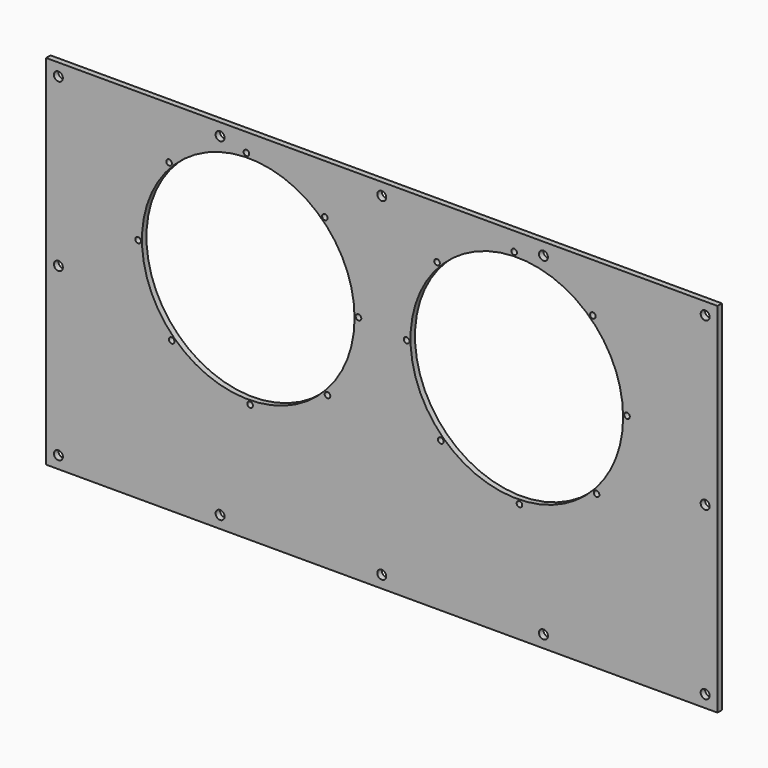
from build123d import *

# Parameters (mm, degrees)
F0_W     = 600
F0_H     = 320
F0_R     = 95
F1_DEPTH = 5
F2_R     = 2.5
F3_DEPTH = 25
F4_R     = 4
F5_DEPTH = 25


with BuildPart() as f1:
    # F0 (on Front) → F1 (new body)
    with BuildSketch(Plane.XZ):
        Rectangle(F0_W, F0_H)
        with Locations((-119.303569, 45)):
            Circle(F0_R, mode=Mode.SUBTRACT)
        with Locations((120.696431, 45)):
            Circle(F0_R, mode=Mode.SUBTRACT)
    extrude(amount=F1_DEPTH)

    # F2 (on face) → F3 (cut)
    with BuildSketch(Plane.XZ.offset(5)):
        with Locations((-120.931181, 143.486552)):
            Circle(F2_R)
        with Locations((118.338796, 143.471781)):
            Circle(F2_R)
        with Locations((-190.094973, 113.489613)):
            Circle(F2_R)
        with Locations((-217.790121, 43.372388)):
            Circle(F2_R)
        with Locations((-187.793182, -25.791404)):
            Circle(F2_R)
        with Locations((-117.675957, -53.486552)):
            Circle(F2_R)
        with Locations((-48.512165, -23.489613)):
            Circle(F2_R)
        with Locations((-20.817017, 46.627612)):
            Circle(F2_R)
        with Locations((-50.813956, 115.791404)):
            Circle(F2_R)
        with Locations((49.399267, 112.962964)):
            Circle(F2_R)
        with Locations((22.22465, 42.642365)):
            Circle(F2_R)
        with Locations((52.733467, -26.297164)):
            Circle(F2_R)
        with Locations((123.054066, -53.471781)):
            Circle(F2_R)
        with Locations((191.993594, -22.962964)):
            Circle(F2_R)
        with Locations((219.168211, 47.357635)):
            Circle(F2_R)
        with Locations((188.659395, 116.297164)):
            Circle(F2_R)
    extrude(amount=-F3_DEPTH, mode=Mode.SUBTRACT)

    # F4 (on face) → F5 (cut)
    with BuildSketch(Plane(origin=(0, 0, 0), x_dir=(-1, 0, 0), z_dir=(0, 1, 0))):
        with Locations((289.000004, 149.000004)):
            Circle(F4_R)
        with Locations((289.000004, -148.999996)):
            Circle(F4_R)
        with Locations((144.500004, 149.000004)):
            Circle(F4_R)
        with Locations((144.500004, -148.999996)):
            Circle(F4_R)
        with Locations((4e-06, 149.000004)):
            Circle(F4_R)
        with Locations((4e-06, -148.999996)):
            Circle(F4_R)
        with Locations((-144.499996, 149.000004)):
            Circle(F4_R)
        with Locations((-144.499996, -148.999996)):
            Circle(F4_R)
        with Locations((-288.999996, 149.000004)):
            Circle(F4_R)
        with Locations((-288.999996, -148.999996)):
            Circle(F4_R)
        with Locations((-289.000004, 0)):
            Circle(F4_R)
        with Locations((289.000004, 4e-06)):
            Circle(F4_R)
    extrude(amount=-F5_DEPTH, mode=Mode.SUBTRACT)


solid = f1.part
